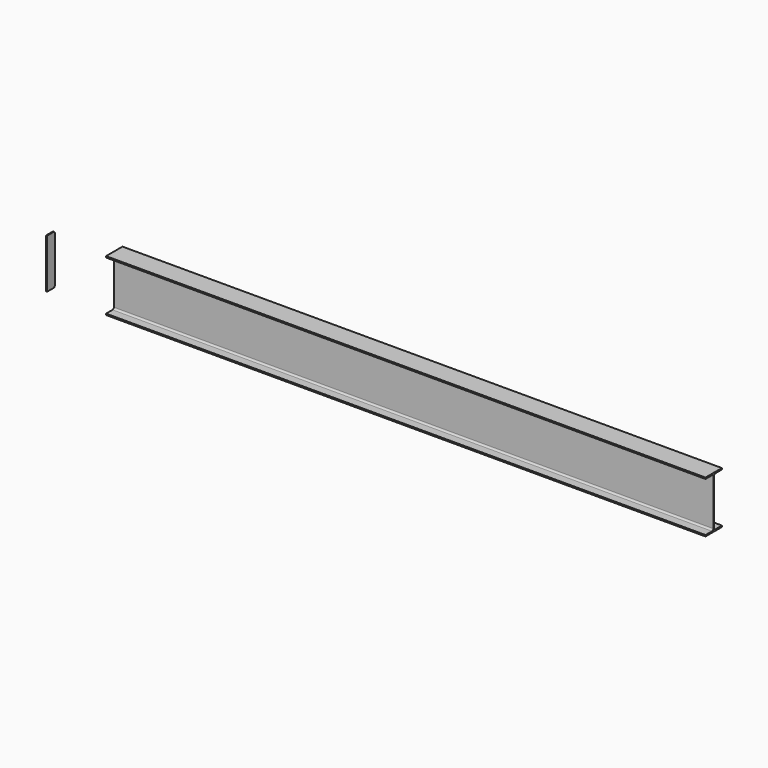
from build123d import *

# Parameters (mm, degrees)
F1_DEPTH = 6096
F4_DEPTH = 9.525


with BuildPart() as f1:
    # F0 (on Right) → F1 (new body)
    with BuildSketch(Plane.YZ):
        with BuildLine():
            Line((-4.7498, 233.98734), (-4.7498, 0))
            Line((-4.7498, 0), (-4.7498, -233.98734))
            ThreePointArc((-4.7498, -233.98734), (-9.644983, -245.805357), (-21.463, -250.70054))
            Line((-21.463, -250.70054), (-104.4956, -250.70054))
            Line((-104.4956, -250.70054), (-104.4956, -263.99998))
            Line((-104.4956, -263.99998), (0, -263.99998))
            Line((0, -263.99998), (104.4956, -263.99998))
            Line((104.4956, -263.99998), (104.4956, -250.70054))
            Line((104.4956, -250.70054), (21.463, -250.70054))
            ThreePointArc((21.463, -250.70054), (9.644983, -245.805357), (4.7498, -233.98734))
            Line((4.7498, -233.98734), (4.7498, 0))
            Line((4.7498, 0), (4.7498, 233.98734))
            ThreePointArc((4.7498, 233.98734), (9.644983, 245.805357), (21.463, 250.70054))
            Line((21.463, 250.70054), (104.4956, 250.70054))
            Line((104.4956, 250.70054), (104.4956, 263.99998))
            Line((104.4956, 263.99998), (0, 263.99998))
            Line((0, 263.99998), (-104.4956, 263.99998))
            Line((-104.4956, 263.99998), (-104.4956, 250.70054))
            Line((-104.4956, 250.70054), (-21.463, 250.70054))
            ThreePointArc((-21.463, 250.70054), (-9.644983, 245.805357), (-4.7498, 233.98734))
        make_face()
    extrude(amount=F1_DEPTH)


with BuildPart() as f4:
    # F3 (on offset) → F4 (new body)
    with BuildSketch(Plane.YZ.offset(-609.6)):
        with BuildLine():
            ThreePointArc((-4.7498, 233.98734), (-9.644983, 245.805357), (-21.463, 250.70054))
            Line((-21.463, 250.70054), (-104.4956, 250.70054))
            Line((-104.4956, 250.70054), (-104.4956, -250.70054))
            Line((-104.4956, -250.70054), (-21.463, -250.70054))
            ThreePointArc((-21.463, -250.70054), (-9.644983, -245.805357), (-4.7498, -233.98734))
            Line((-4.7498, -233.98734), (-4.7498, 233.98734))
        make_face()
    extrude(amount=F4_DEPTH)


solid = Compound([f1.part, f4.part])
